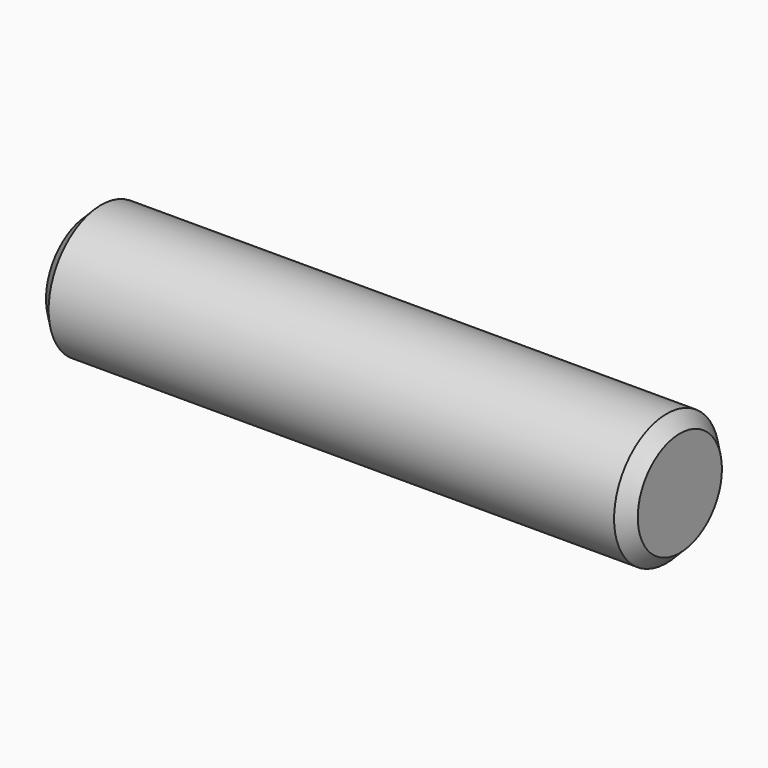
from build123d import *

# Parameters (mm, degrees)
F0_R     = 5
F1_DEPTH = 45
F2_R     = 1
F3_DEPTH = 25
F4_SIZE  = 1


with BuildPart() as f1:
    # F0 (on Right) → F1 (new body)
    with BuildSketch(Plane.YZ):
        Circle(F0_R)
    extrude(amount=F1_DEPTH)

    # F2 (on face) → F3 (cut)
    with BuildSketch(Plane(origin=(0, 0, 0), x_dir=(0, -1, 0), z_dir=(-1, 0, 0))):
        Circle(F2_R)
    extrude(amount=-F3_DEPTH, mode=Mode.SUBTRACT)

    # F4
    f4_edges = [f1.edges().sort_by_distance(p)[0] for p in [
        (0, -5, 0),
        (45, -5, 0),
    ]]
    chamfer(f4_edges, length=F4_SIZE)


solid = f1.part
